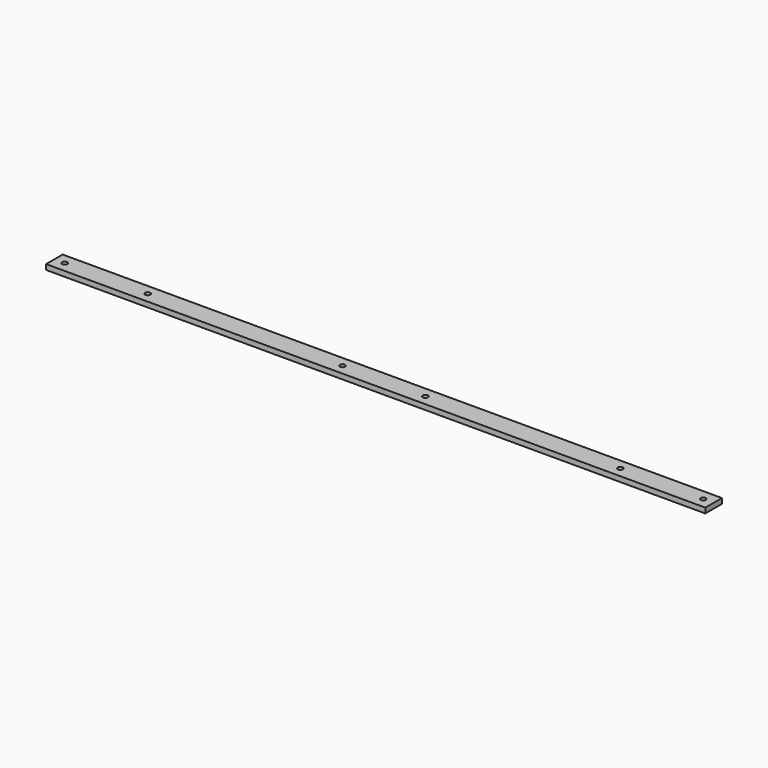
from build123d import *

# Parameters (mm, degrees)
F0_W     = 807.72
F0_H     = 25.4
F1_DEPTH = 6.35
F2_R     = 3.175
F3_DEPTH = 25.4


with BuildPart() as f1:
    # F0 (on Top) → F1 (new body)
    with BuildSketch(Plane.XY):
        Rectangle(F0_W, F0_H)
    extrude(amount=F1_DEPTH)

    # F2 (on face) → F3 (cut)
    with BuildSketch(Plane.XY.offset(6.35)):
        with Locations((-391.16, 0)):
            Circle(F2_R)
        with Locations((-289.56, 0)):
            Circle(F2_R)
        with Locations((-50.8, 0)):
            Circle(F2_R)
        with Locations((50.8, 0)):
            Circle(F2_R)
        with Locations((289.56, 0)):
            Circle(F2_R)
        with Locations((391.16, 0)):
            Circle(F2_R)
    extrude(amount=-F3_DEPTH, mode=Mode.SUBTRACT)


solid = f1.part
